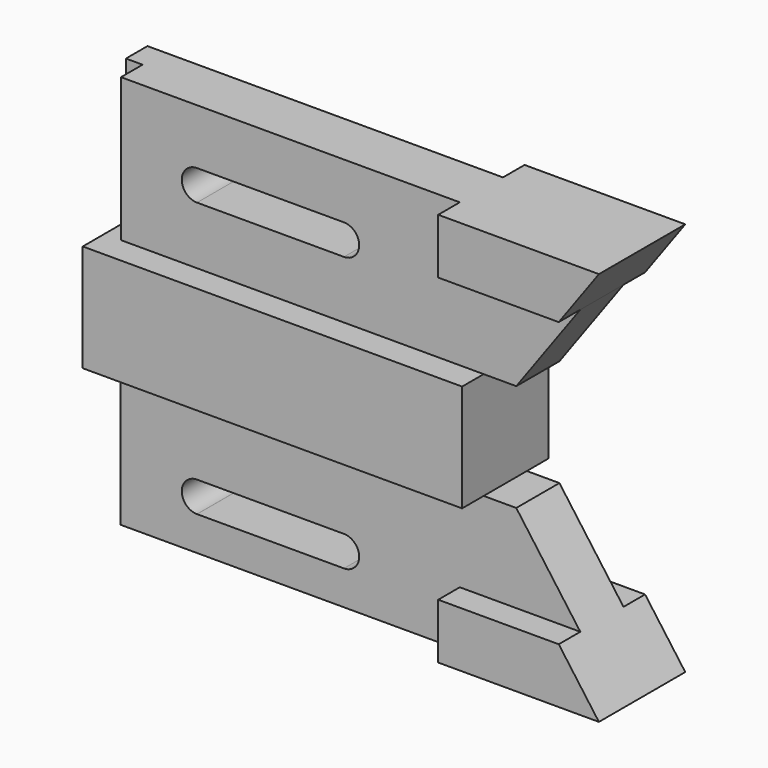
from build123d import *

# Parameters (mm, degrees)
F1_DEPTH = 12.7
F2_DEPTH = 6.35
F3_DEPTH = 12.7
F0_W     = 3.919005394
F0_H     = 33.7724040388
F0_W_2   = 3.7486106157
F4_DEPTH = 6.35


with BuildPart() as f1:
    # F0 (on Front) → F1 (new body, symmetric)
    with BuildSketch(Plane.XZ):
        Polygon((-63.2172524929, 25.2362620085), (-67.1362578869, 25.2362620085), (-67.1362578869, 12.6181310043), (22.1488550305, 12.6181310043), (22.1488550305, 25.2362620085), align=None)
        Polygon((22.1488550305, 12.6181310043), (-67.1362578869, 12.6181310043), (-67.1362578869, 0), (-63.3876472712, 0), (22.1488550305, 0), align=None)
    extrude(amount=F1_DEPTH, both=True)

    # F0 (on Front) → F2 (join, symmetric)
    with BuildSketch(Plane.XZ):
        Polygon((16.5259391069, 59.0086660474), (-63.2172524929, 59.0086660474), (-63.2172524929, 25.2362620085), (22.1488550305, 25.2362620085), (29.8164691776, 25.2362620085), (44.8951655051, 45.9909210103), (16.5259391069, 45.9909210103), align=None)
        with BuildLine():
            ThreePointArc((-45.3261546791, 38.8342062133), (-48.9041308958, 42.4647925685), (-45.2217078929, 45.9893963645))
            Line((-45.2217078929, 45.9893963645), (-10.7368518343, 45.9909210068))
            ThreePointArc((-10.7368518343, 45.9909210068), (-7.1583362305, 42.4126427149), (-10.7366936281, 38.8342062133))
            Line((-10.7366936281, 38.8342062133), (-45.3261546791, 38.8342062133))
        make_face(mode=Mode.SUBTRACT)
        Polygon((29.8164691776, 0), (22.1488550305, 0), (-63.3876472712, 0), (-63.3876472712, -33.7724040388), (16.5259391069, -33.7724040388), (16.5259391069, -20.7546590018), (44.8951655051, -20.7546590018), align=None)
        with BuildLine():
            ThreePointArc((-45.3399057596, -25.7136520276), (-48.9045054721, -22.1284454979), (-45.3261546791, -18.5569636524))
            Line((-45.3261546791, -18.5569636524), (-10.7366936281, -18.5569636524))
            ThreePointArc((-10.7366936281, -18.5569636524), (-7.1583362296, -22.135322417), (-10.7366963604, -25.7136784494))
            Line((-10.7366963604, -25.7136784494), (-45.3124090631, -25.7136520486))
            ThreePointArc((-45.3124090631, -25.7136520486), (-45.3261574114, -25.7136784494), (-45.3399057596, -25.7136520276))
        make_face(mode=Mode.SUBTRACT)
    extrude(amount=F2_DEPTH, both=True)

    # F0 (on Front) → F3 (join, symmetric)
    with BuildSketch(Plane.XZ):
        Polygon((54.3528310955, 59.0086660474), (16.5259391069, 59.0086660474), (16.5259391069, 45.9909210103), (44.8951655051, 45.9909210103), align=None)
        Polygon((54.3528310955, -33.7724040388), (44.8951655051, -20.7546590018), (16.5259391069, -20.7546590018), (16.5259391069, -33.7724040388), align=None)
    extrude(amount=F3_DEPTH, both=True)

    # F0 (on Front) → F4 (join)
    with BuildSketch(Plane.XZ):
        with Locations((-65.1767551899, 42.122464028)):
            Rectangle(F0_W, F0_H)
        with Locations((-65.261952579, -16.8862020194)):
            Rectangle(F0_W_2, F0_H)
    extrude(amount=-F4_DEPTH)


solid = f1.part
